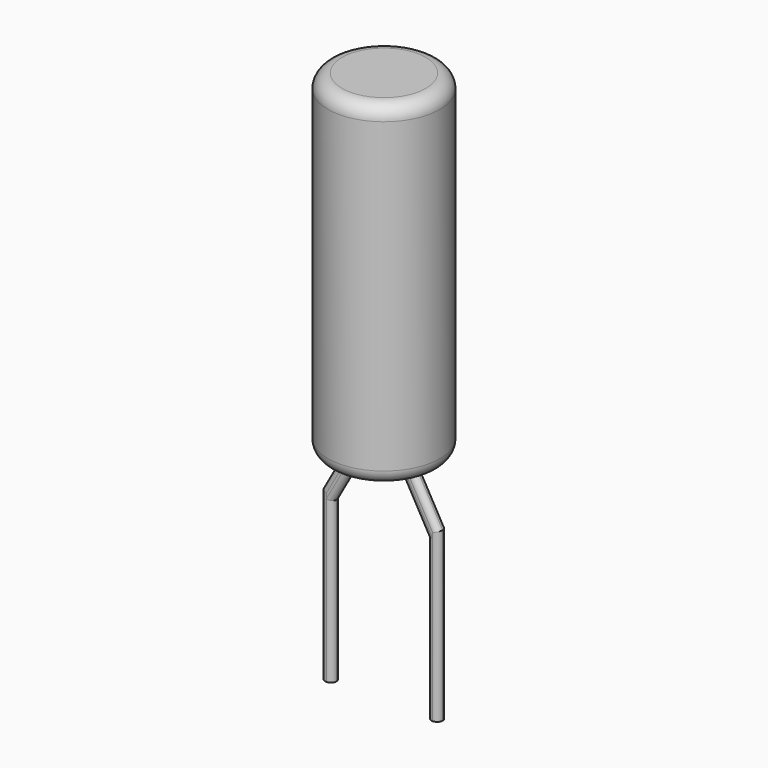
from build123d import *

# Parameters (mm, degrees)
PAD_DEPTH = 0.1
FILLET_R  = 0.0998


with BuildPart() as revolution:
    # Sketch002 → Revolution (revolve)
    with BuildSketch(Plane.XZ):
        with BuildLine():
            Line((0.2, 6.96), (0.95, 6.96))
            Line((0.95, 0.96), (0.95, 6.96))
            Line((0.95, 0.96), (0.2, 0.96))
            ThreePointArc((-0.05, 1.21), (0.023223, 1.033223), (0.2, 0.96))
            Line((-0.05, 1.21), (-0.05, 6.71))
            ThreePointArc((0.2, 6.96), (0.023223, 6.886777), (-0.05, 6.71))
        make_face()
    revolve(axis=Axis((0.95, 0, 6.96), (0, 0, -1)))


with BuildPart() as fillet_body:
    # Sketch → Pad (new body, symmetric)
    with BuildSketch(Plane.XZ):
        Polygon((0.1, -2.9), (0.1, -0.041421), (0.55, 0.758579), (0.55, 1), (0.35, 1), (0.35, 0.9), (-0.1, 0.1), (-0.1, -2.9), align=None)
        Polygon((1.35, 1), (1.55, 1), (1.55, 0.9), (2, 0.1), (2, -2.9), (1.8, -2.9), (1.8, -0.041421), (1.35, 0.758579), align=None)
    extrude(amount=PAD_DEPTH, both=True)

    # Fillet
    fillet_edges = [fillet_body.edges().sort_by_distance(p)[0] for p in [
        (0.125, -0.1, 0.5),
        (0.35, -0.1, 0.95),
        (0.55, -0.1, 0.879289),
        (0.325, -0.1, 0.358579),
        (0.1, -0.1, -1.470711),
        (-0.1, -0.1, -1.4),
        (0.1, 0.1, -1.470711),
        (0.325, 0.1, 0.358579),
        (0.55, 0.1, 0.879289),
        (1.575, -0.1, 0.358579),
        (1.35, -0.1, 0.879289),
        (1.8, -0.1, -1.470711),
        (2, -0.1, -1.4),
        (1.775, -0.1, 0.5),
        (1.55, -0.1, 0.95),
        (1.55, 0.1, 0.95),
        (1.775, 0.1, 0.5),
        (2, 0.1, -1.4),
        (1.8, 0.1, -1.470711),
        (1.575, 0.1, 0.358579),
        (1.35, 0.1, 0.879289),
        (0.35, 0.1, 0.95),
        (-0.1, 0.1, -1.4),
        (0.125, 0.1, 0.5),
    ]]
    fillet(fillet_edges, radius=FILLET_R)


solid = Compound([revolution.part, fillet_body.part])
